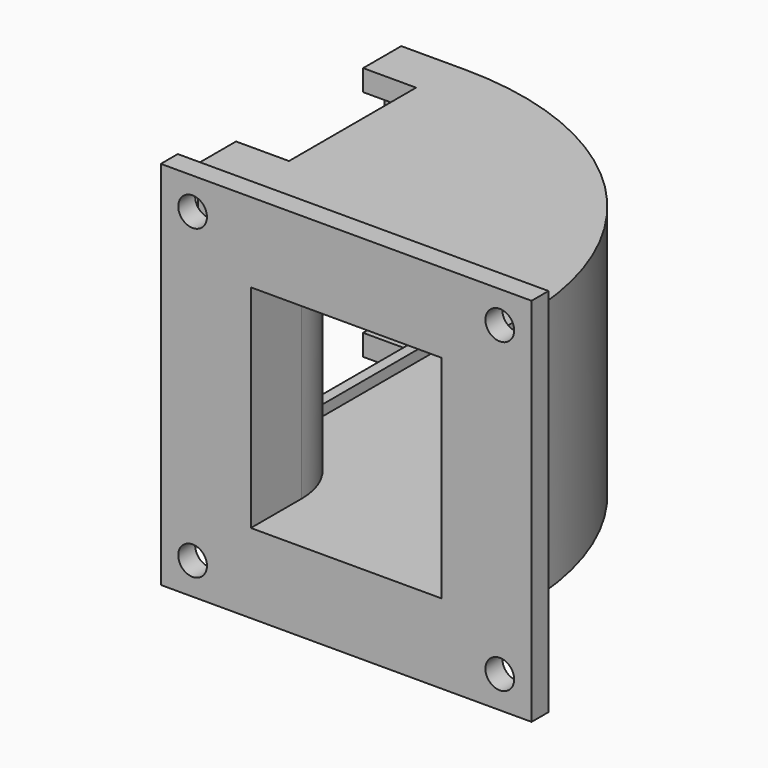
from build123d import *

# Parameters (mm, degrees)
F1_DEPTH  = 38.1
F2_T      = -3.175
F3_DEPTH  = 3.175
F4_W      = 3.175
F4_H      = 23.8125
F4_W_2    = 23.8125
F4_H_2    = 3.175
F5_DEPTH  = 7.9375
F6_W      = 55.5625
F6_H      = 55.5625
F6_R      = 2.15265
F6_W_2    = 31.75
F6_H_2    = 31.75
F7_DEPTH  = 3.175
F8_W      = 31.75
F8_H      = 31.75
F8_W_2    = 28.575
F8_H_2    = 28.575
F9_DEPTH  = 1.5875
F10_R     = 0.79375
F11_DEPTH = 7.9375
F12_W     = 1.5875
F12_H     = 31.75
F14_W     = 1.5875
F14_H     = 31.75


with BuildPart() as f1:
    # F0 (on Top) → F1 (new body)
    with BuildSketch(Plane.XY):
        with BuildLine():
            ThreePointArc((44.45, -44.45), (31.4308964237, -13.0191035763), (0, 0))
            Line((0, 0), (-9.525, 0))
            Line((-9.525, 0), (-9.525, -38.1))
            Line((-9.525, -38.1), (0, -38.1))
            ThreePointArc((0, -38.1), (4.4901280605, -39.9598719395), (6.35, -44.45))
            Line((6.35, -44.45), (6.35, -53.975))
            Line((6.35, -53.975), (44.45, -53.975))
            Line((44.45, -53.975), (44.45, -44.45))
        make_face()
    extrude(amount=F1_DEPTH)

    # F2
    f2_openings = [f1.faces().sort_by_distance(p)[0] for p in [
        (-9.525, -19.05, 19.05),
    ]]
    offset(amount=F2_T, openings=f2_openings)

    # F3 (cut, through all): a face of the model
    f3_faces = [f1.faces().sort_by_distance(p)[0] for p in [
        (25.4, -50.8, 19.05),
    ]]
    extrude(f3_faces, amount=-F3_DEPTH, mode=Mode.SUBTRACT)

    # F4 (on face) → F5 (cut)
    with BuildSketch(Plane(origin=(-9.525, 0, 0), x_dir=(0, -1, 0), z_dir=(-1, 0, 0))):
        with Locations((1.5875, 19.05)):
            Rectangle(F4_W, F4_H)
        with Locations((19.05, 36.5125)):
            Rectangle(F4_W_2, F4_H_2)
        with Locations((36.5125, 19.05)):
            Rectangle(F4_W, F4_H)
        with Locations((19.05, 1.5875)):
            Rectangle(F4_W_2, F4_H_2)
    extrude(amount=-F5_DEPTH, mode=Mode.SUBTRACT)

    # F6 (on face) → F7 (join)
    with BuildSketch(Plane.XZ.offset(53.975)):
        with Locations((25.4, 19.05)):
            Rectangle(F6_W, F6_H)
        with Locations((2.38125, -3.96875)):
            Circle(F6_R, mode=Mode.SUBTRACT)
        with Locations((48.41875, -3.96875)):
            Circle(F6_R, mode=Mode.SUBTRACT)
        with Locations((2.38125, 42.06875)):
            Circle(F6_R, mode=Mode.SUBTRACT)
        with Locations((25.4, 19.05)):
            Rectangle(F6_W_2, F6_H_2, mode=Mode.SUBTRACT)
        with Locations((48.41875, 42.06875)):
            Circle(F6_R, mode=Mode.SUBTRACT)
    extrude(amount=-F7_DEPTH)

    # F8 (on face) → F9 (join)
    with BuildSketch(Plane(origin=(-1.5875, 0, 0), x_dir=(0, -1, 0), z_dir=(-1, 0, 0))):
        with Locations((19.05, 19.05)):
            Rectangle(F8_W, F8_H)
        with Locations((19.05, 19.05)):
            Rectangle(F8_W_2, F8_H_2, mode=Mode.SUBTRACT)
    extrude(amount=-F9_DEPTH)

    # F10 (on face) → F11 (cut, through all)
    with BuildSketch(Plane(origin=(-1.5875, 0, 0), x_dir=(0, -1, 0), z_dir=(-1, 0, 0))):
        with Locations((3.175, 34.925)):
            Circle(F10_R)
        with Locations((3.175, 3.175)):
            Circle(F10_R)
        with Locations((34.925, 34.925)):
            Circle(F10_R)
        with Locations((34.925, 3.175)):
            Circle(F10_R)
    extrude(amount=F11_DEPTH, mode=Mode.SUBTRACT)

    # F13: sweep along a path in F13_path
    with BuildLine(Plane(origin=(9.525, -53.975, 34.925), x_dir=(0, -1, 0), z_dir=(0, 0, -1))) as f13_path:
        Line((0, 0), (-9.525, 0))
        ThreePointArc((-9.525, 0), (-16.2601920908, 2.7898079092), (-19.05, 9.525))
    # F12 (on face) → F13 (sweep)
    with BuildSketch(Plane.XZ.offset(53.975)):
        with Locations((10.31875, 19.05)):
            Rectangle(F12_W, F12_H)
    sweep(path=f13_path.line)

    # F15: sweep along a path in F15_path
    with BuildLine(Plane(origin=(41.275, -53.975, 34.925), x_dir=(0, -1, 0), z_dir=(0, 0, -1))) as f15_path:
        Line((0, 0), (-9.525, 0))
        ThreePointArc((-9.525, 0), (-38.7108323935, 12.0891676065), (-50.8, 41.275))
    # F14 (on face) → F15 (sweep)
    with BuildSketch(Plane.XZ.offset(53.975)):
        with Locations((40.48125, 19.05)):
            Rectangle(F14_W, F14_H)
    sweep(path=f15_path.line)


solid = f1.part
